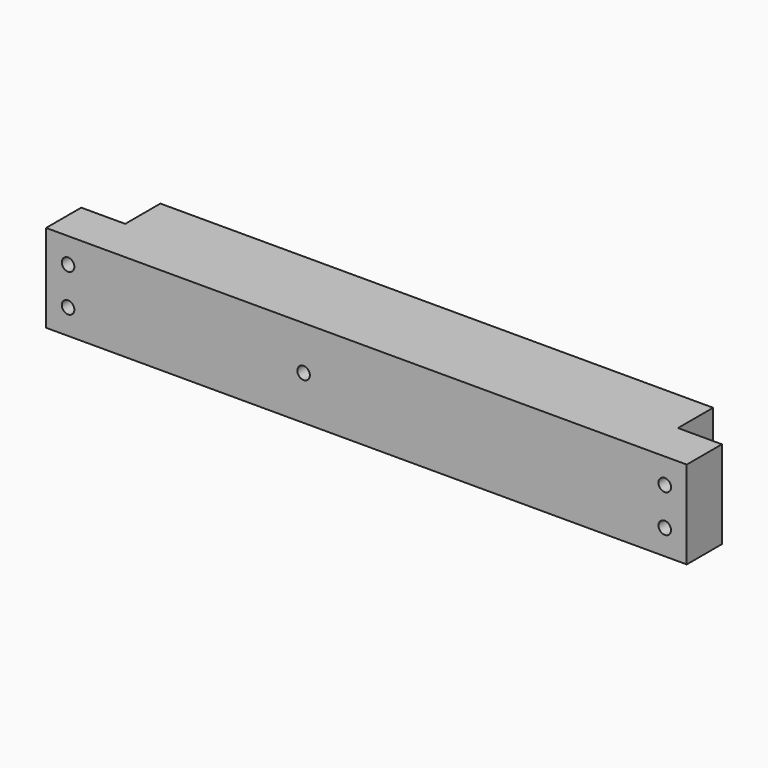
from build123d import *

# Parameters (mm, degrees)
F0_W     = 647.7
F0_H     = 88.9
F0_R     = 6.35
F1_DEPTH = 88.9
F2_W     = 44.45
F2_H     = 44.45
F3_DEPTH = 101.6


with BuildPart() as f1:
    # F0 (on Front) → F1 (new body)
    with BuildSketch(Plane.XZ):
        Rectangle(F0_W, F0_H)
        with Locations((-301.625, -19.05)):
            Circle(F0_R, mode=Mode.SUBTRACT)
        with Locations((301.625, -19.05)):
            Circle(F0_R, mode=Mode.SUBTRACT)
        with Locations((-301.625, 19.05)):
            Circle(F0_R, mode=Mode.SUBTRACT)
        with Locations((-63.5, 0)):
            Circle(F0_R, mode=Mode.SUBTRACT)
        with Locations((301.625, 19.05)):
            Circle(F0_R, mode=Mode.SUBTRACT)
    extrude(amount=F1_DEPTH)

    # F2 (on face) → F3 (cut)
    with BuildSketch(Plane.XY.offset(44.45)):
        with Locations((-301.625, -22.225)):
            Rectangle(F2_W, F2_H)
        with Locations((301.625, -22.225)):
            Rectangle(F2_W, F2_H)
    extrude(amount=-F3_DEPTH, mode=Mode.SUBTRACT)


solid = f1.part
